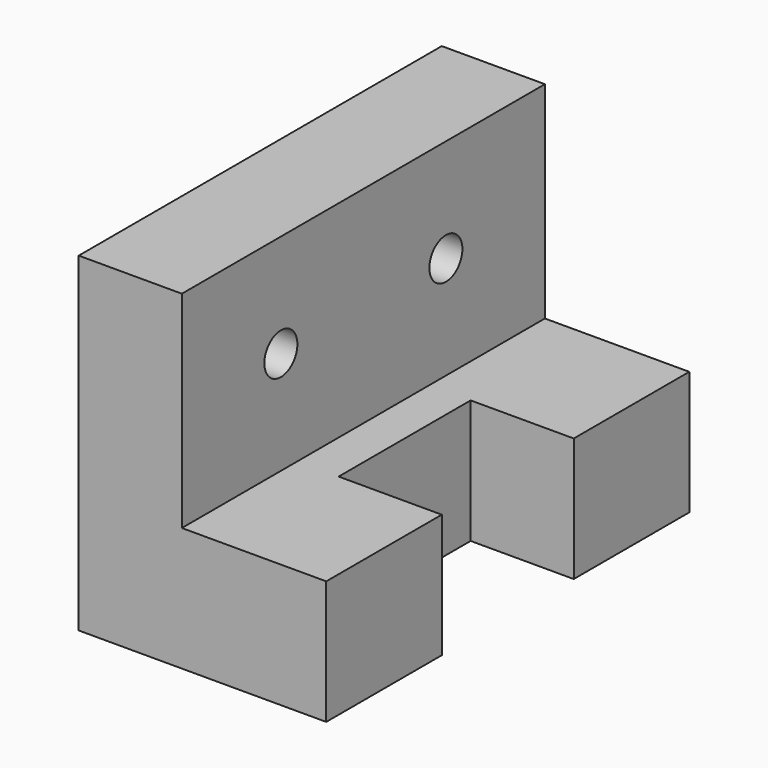
from build123d import *

# Parameters (mm, degrees)
F0_W     = 60
F0_H     = 110
F1_DEPTH = 80
F2_W     = 35
F2_H     = 50
F3_DEPTH = 110
F4_W     = 25
F4_H     = 40
F5_DEPTH = 30
F6_R     = 5
F7_DEPTH = 25


with BuildPart() as f1:
    # F0 (on Top) → F1 (new body)
    with BuildSketch(Plane.XY):
        with Locations((-28.960537, 38.087605)):
            Rectangle(F0_W, F0_H)
    extrude(amount=F1_DEPTH)

    # F2 (on face) → F3 (cut)
    with BuildSketch(Plane.XZ.offset(16.912395)):
        with Locations((-16.460537, 55)):
            Rectangle(F2_W, F2_H)
    extrude(amount=-F3_DEPTH, mode=Mode.SUBTRACT)

    # F4 (on face) → F5 (cut)
    with BuildSketch(Plane.XY.offset(30)):
        with Locations((-11.460537, 38.087605)):
            Rectangle(F4_W, F4_H)
    extrude(amount=-F5_DEPTH, mode=Mode.SUBTRACT)

    # F6 (on face) → F7 (cut)
    with BuildSketch(Plane.YZ.offset(-33.960537)):
        with Locations((13.087605, 55)):
            Circle(F6_R)
        with Locations((63.087605, 55)):
            Circle(F6_R)
    extrude(amount=-F7_DEPTH, mode=Mode.SUBTRACT)


solid = f1.part
